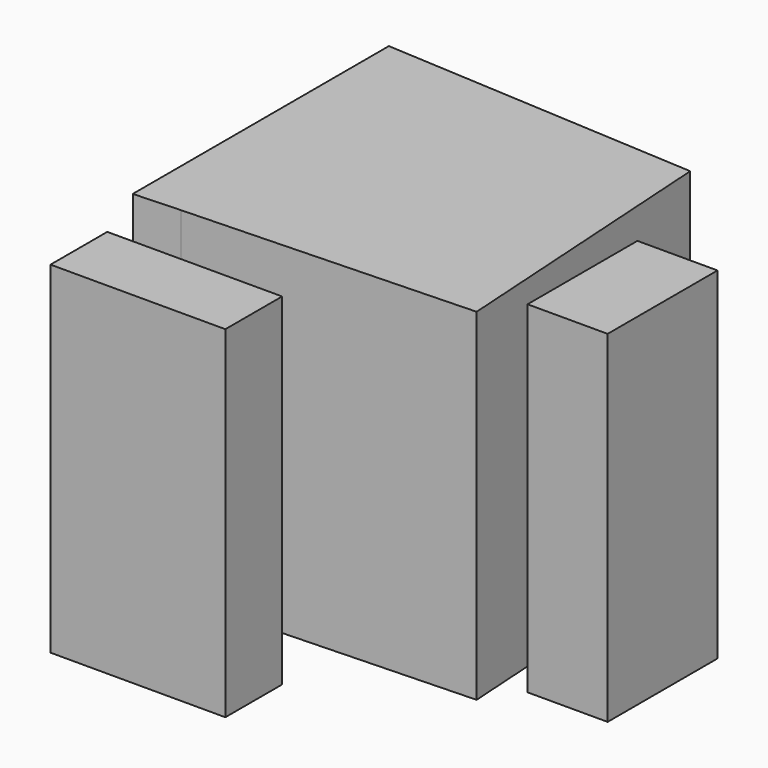
from build123d import *

# Parameters (mm, degrees)
F0_W     = 7.514417
F0_H     = 12.881864
F0_W_2   = 16.4029
F0_H_2   = 6.65563
F1_DEPTH = 32.048814


with BuildPart() as f1:
    # F0 (on Top) → F1 (new body)
    with BuildSketch(Plane.XY):
        Polygon((9.80648, 44.567125), (9.80648, 14.537834), (14.160216, 14.726631), (41.159034, 15.67065), (39.444314, 42.861348), align=None)
        with Locations((47.084201, 25.371043)):
            Rectangle(F0_W, F0_H)
        with Locations((20.311404, 5.339751)):
            Rectangle(F0_W_2, F0_H_2)
    extrude(amount=F1_DEPTH)


solid = f1.part
